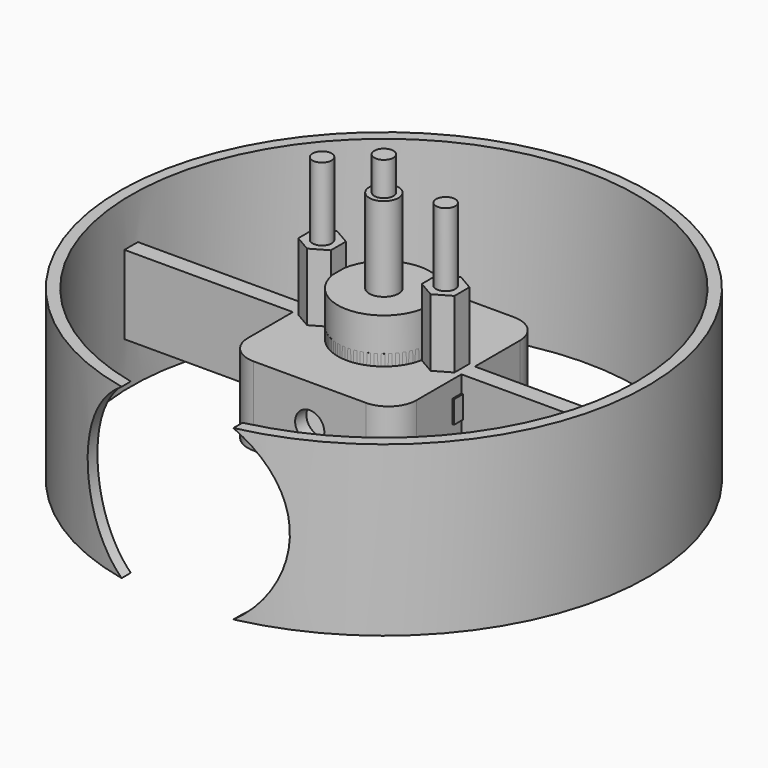
from build123d import *

# Parameters (mm, degrees)
CYLINDER_R               = 2.95
CYLINDER_DEPTH           = 7
CYLINDER001_R            = 1.7
CYLINDER001_DEPTH        = 30
PRISM_DEPTH              = 12
CYLINDER1003_R           = 8.2
CYLINDER1003_DEPTH       = 15
CLONE139_PLACEMENT_ANGLE = 30
BOX251_W                 = 30.6
BOX251_H                 = 7
BOX251_DEPTH             = 4
CYLINDER1015_R           = 5
CYLINDER1015_DEPTH       = 10
CLONE140_PLACEMENT_ANGLE = 30
CYLINDER1030_R           = 2.6
CYLINDER1030_DEPTH       = 30
PRISM001_DEPTH           = 10
CLONE322_ROLL_ANGLE      = 90
CYLINDER1031_R           = 18
CYLINDER1031_DEPTH       = 10
CYLINDER1031_ROLL_ANGLE  = 90
CLONE323_ROLL_ANGLE      = 90
PAD041_DEPTH             = 7
SKETCH057_R              = 47
SKETCH057_R_2            = 45
PAD040_DEPTH             = 15


with BuildPart() as m3bolthead:
    # Cylinder → Cylinder (new body)
    with BuildSketch(Plane.XY):
        Circle(CYLINDER_R)
    extrude(amount=CYLINDER_DEPTH)


with BuildPart() as m3bolt:
    # Cylinder001 → Cylinder001 (new body)
    with BuildSketch(Plane.XY.offset(6)):
        Circle(CYLINDER001_R)
    extrude(amount=CYLINDER001_DEPTH)

    # Fusion: union M3BoltHead
    add(m3bolthead.part)


with BuildPart() as m3nut:
    # Prism → Prism (new body)
    with BuildSketch(Plane.XY):
        Polygon((3.35, 0), (1.675, 2.901185), (-1.675, 2.901185), (-3.35, 0), (-1.675, -2.901185), (1.675, -2.901185), align=None)
    extrude(amount=PRISM_DEPTH)


with BuildPart() as obj1:
    # Cylinder1003 → Cylinder1003 (new body)
    with BuildSketch(Plane.XY):
        Circle(CYLINDER1003_R)
    extrude(amount=CYLINDER1003_DEPTH)


with BuildPart() as clone_of_m3nut005:
    # Clone139 base: copy of M3Nut
    add(m3nut.part)


with BuildPart() as clone_of_m3nut005_1:
    # Clone139 placement: moved
    add(clone_of_m3nut005.part.moved(Location((11, 0, 7))).rotate(Axis((11, 0, 7), (0, 0, 1)), CLONE139_PLACEMENT_ANGLE))


with BuildPart() as cube015:
    # Box251 → Box251 (new body)
    with BuildSketch(Plane(origin=(-15.3, -3.5, 0), x_dir=(1, 0, 0), z_dir=(0, 0, 1))):
        with Locations((15.3, 3.5)):
            Rectangle(BOX251_W, BOX251_H)
    extrude(amount=BOX251_DEPTH)


with BuildPart() as clone_of_m3bolt039:
    # Clone137 base: copy of M3Bolt
    add(m3bolt.part)


with BuildPart() as clone_of_m3bolt039_1:
    # Clone137 placement: moved
    add(clone_of_m3bolt039.part.moved(Location((11, 0, -4))))


with BuildPart() as clone_of_m3bolt040:
    # Clone138 base: copy of M3Bolt
    add(m3bolt.part)


with BuildPart() as clone_of_m3bolt040_1:
    # Clone138 placement: moved
    add(clone_of_m3bolt040.part.moved(Location((-11, 0, -4))))


with BuildPart() as cylinder021:
    # Cylinder1015 → Cylinder1015 (new body)
    with BuildSketch(Plane.XY.offset(4)):
        Circle(CYLINDER1015_R)
    extrude(amount=CYLINDER1015_DEPTH)


with BuildPart() as obj2:
    # Clone136 base: copy of obj1
    add(obj1.part)


with BuildPart() as obj2_1:
    # Clone136 placement: moved
    add(obj2.part.moved(Location((0, 0, -6))))


with BuildPart() as obj3:
    # Clone140 base: copy of M3Nut
    add(m3nut.part)


with BuildPart() as obj3_1:
    # Clone140 placement: moved
    add(obj3.part.moved(Location((-11, 0, 7))).rotate(Axis((-11, 0, 7), (0, 0, 1)), CLONE140_PLACEMENT_ANGLE))

    # Fusion062: union Clone of M3Nut005, Cube015, Clone of M3Bolt039, Clone of M3Bolt040, Cylinder021, obj2
    add(clone_of_m3nut005_1.part)
    add(cube015.part)
    add(clone_of_m3bolt039_1.part)
    add(clone_of_m3bolt040_1.part)
    add(cylinder021.part)
    add(obj2_1.part)


with BuildPart() as m5bolt:
    # Cylinder1030 → Cylinder1030 (new body)
    with BuildSketch(Plane.XY):
        Circle(CYLINDER1030_R)
    extrude(amount=CYLINDER1030_DEPTH)


with BuildPart() as m5nut:
    # Prism001 → Prism001 (new body)
    with BuildSketch(Plane.XY):
        Polygon((5.7, 0), (2.85, 4.936345), (-2.85, 4.936345), (-5.7, 0), (-2.85, -4.936345), (2.85, -4.936345), align=None)
    extrude(amount=PRISM001_DEPTH)


with BuildPart() as clone_of_m5nut:
    # Clone322 base: copy of M5Nut
    add(m5nut.part)


with BuildPart() as clone_of_m5nut_1:
    # Clone322 roll: moved
    add(clone_of_m5nut.part.rotate(Axis((0, 0, 0), (1, 0, 0)), CLONE322_ROLL_ANGLE))


with BuildPart() as clone_of_m5nut_2:
    # Clone322 placement: moved
    add(clone_of_m5nut_1.part.moved(Location((0, -4, 0))))


with BuildPart() as obj4:
    # Clone305 base: copy of obj3
    add(obj3_1.part)


with BuildPart() as obj4_1:
    # Clone305 placement: moved
    add(obj4.part.moved(Location((0, 0, -7))))


with BuildPart() as cylinder1073:
    # Cylinder1031 → Cylinder1031 (new body)
    with BuildSketch(Plane.XY):
        Circle(CYLINDER1031_R)
    extrude(amount=CYLINDER1031_DEPTH)


with BuildPart() as cylinder1073_1:
    # Cylinder1031 roll: moved
    add(cylinder1073.part.rotate(Axis((0, 0, 0), (1, 0, 0)), CYLINDER1031_ROLL_ANGLE))


with BuildPart() as cylinder1073_2:
    # Cylinder1031 placement: moved
    add(cylinder1073_1.part.moved(Location((0, -40, 0))))


with BuildPart() as fusion119:
    # Clone323 base: copy of M5Bolt
    add(m5bolt.part)


with BuildPart() as fusion119_1:
    # Clone323 roll: moved
    add(fusion119.part.rotate(Axis((0, 0, 0), (1, 0, 0)), CLONE323_ROLL_ANGLE))


with BuildPart() as fusion119_2:
    # Clone323 placement: moved
    add(fusion119_1.part)

    # Fusion119: union Clone of M5Nut, obj4, Cylinder1073
    add(clone_of_m5nut_2.part)
    add(obj4_1.part)
    add(cylinder1073_2.part)


with BuildPart() as pad041:
    # Sketch058 → Pad041 (new body, symmetric)
    with BuildSketch(Plane.XY):
        with BuildLine():
            Line((-10.000003, 16.5), (9.999997, 16.5))
            ThreePointArc((15, 11.500003), (13.535532, 15.035536), (9.999997, 16.5))
            Line((15, 11.500003), (15, 1.5))
            Line((15, 1.5), (46, 1.5))
            Line((46, 1.5), (46, -1.5))
            Line((46, -1.5), (15, -1.5))
            Line((15, -1.5), (15, -11.500002))
            ThreePointArc((9.999972, -16.5), (13.535523, -15.035545), (15, -11.500002))
            Line((9.999972, -16.5), (-10.000003, -16.5))
            ThreePointArc((-15, -11.500003), (-13.535534, -15.035534), (-10.000003, -16.5))
            Line((-15, -11.500003), (-15, -1.5))
            Line((-46, -1.5), (-15, -1.5))
            Line((-46, 1.5), (-46, -1.5))
            Line((-15, 1.5), (-46, 1.5))
            Line((-15, 1.5), (-15, 11.500003))
            ThreePointArc((-10.000003, 16.5), (-13.535534, 15.035534), (-15, 11.500003))
        make_face()
    extrude(amount=PAD041_DEPTH, both=True)


with BuildPart() as obj5:
    # Sketch057 → Pad040 (new body, symmetric)
    with BuildSketch(Plane.XY):
        Circle(SKETCH057_R)
        Circle(SKETCH057_R_2, mode=Mode.SUBTRACT)
    extrude(amount=PAD040_DEPTH, both=True)

    # Fusion108: union Pad041
    add(pad041.part)

    # Cut100: cut Fusion119
    add(fusion119_2.part, mode=Mode.SUBTRACT)


solid = Compound([m3bolt.part, m3nut.part, obj1.part, obj3_1.part, m5bolt.part, m5nut.part, obj5.part])
